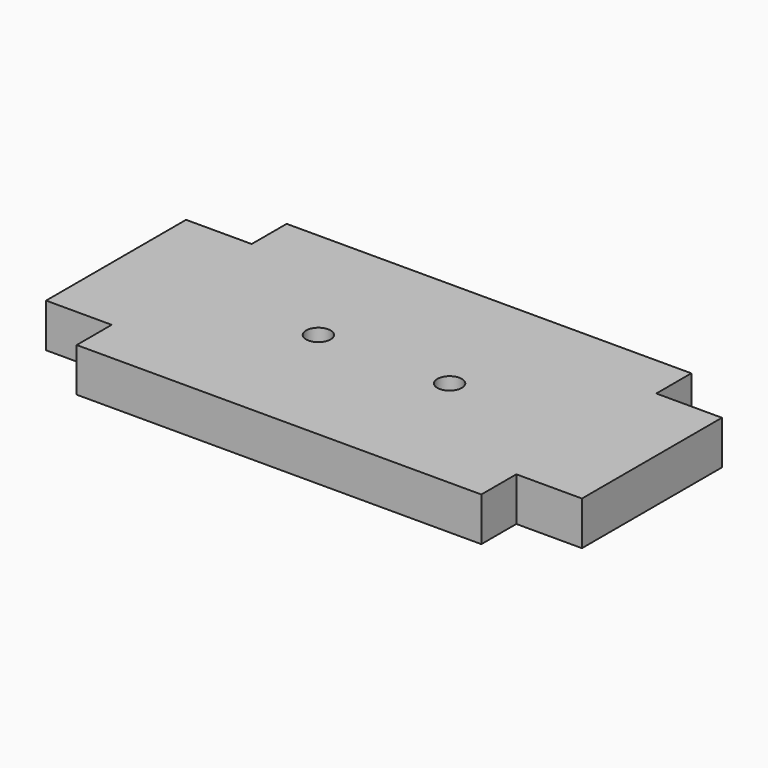
from build123d import *

# Parameters (mm, degrees)
F0_R     = 1.778
F1_DEPTH = 6.35


with BuildPart() as f1:
    # F0 (on Top) → F1 (new body)
    with BuildSketch(Plane.XY):
        Polygon((29.36875, -12.7), (38.89375, -12.7), (38.89375, 12.7), (29.36875, 12.7), (29.36875, 19.05), (-29.36875, 19.05), (-29.36875, 12.7), (-38.89375, 12.7), (-38.89375, -12.7), (-29.36875, -12.7), (-29.36875, -19.05), (29.36875, -19.05), align=None)
        with Locations((-9.525, 0)):
            Circle(F0_R, mode=Mode.SUBTRACT)
        with Locations((9.525, 0)):
            Circle(F0_R, mode=Mode.SUBTRACT)
    extrude(amount=F1_DEPTH)


solid = f1.part
